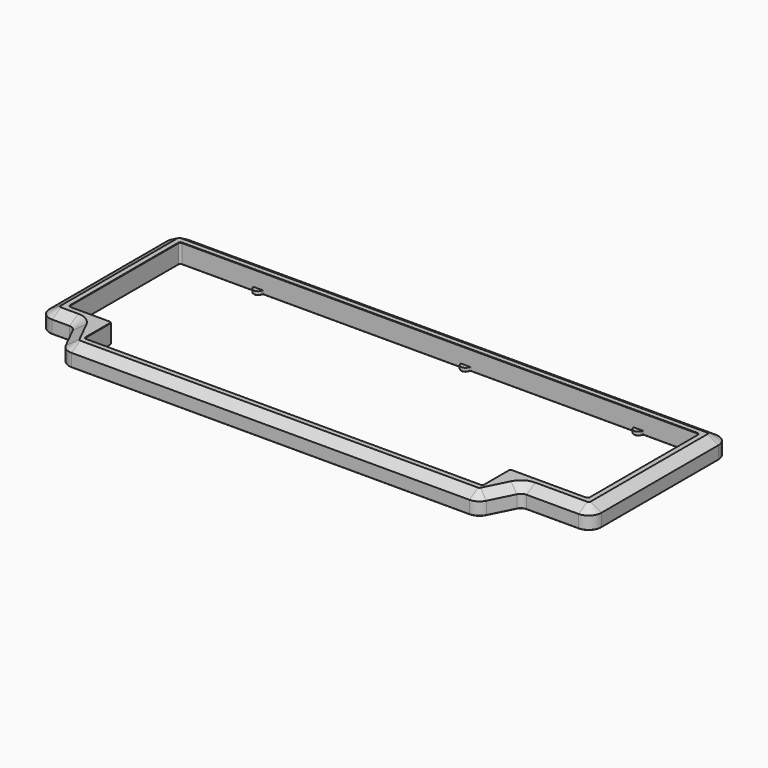
from build123d import *

# Parameters (mm, degrees)
PAD_DEPTH       = 10.6
PAD005_DEPTH    = 2
FILLET_R        = 4
FILLET008_R     = 7
CHAMFER_ANGLE   = 30
CHAMFER_SIZE    = 6
FILLET009_R     = 1
FILLET010_R     = 1.2
CHAMFER004_SIZE = 0.2
SKETCH015_R     = 1.25
HOLE004_DEPTH   = 3
HOLE004_TIPS_R  = 1.25


with BuildPart() as part:
    # Sketch → Pad (new body)
    with BuildSketch(Plane.XY):
        Polygon((-152.075, 56.825), (152.075, 56.825), (152.075, -37.775), (113.975, -37.775), (104.45, -56.825), (-123.5, -56.825), (-133.025, -37.775), (-152.075, -37.775), align=None)
        Polygon((-143.075, 47.825), (143.075, 47.825), (143.075, -28.775), (100.2125, -28.775), (100.2125, -47.825), (-119.2625, -47.825), (-119.2625, -28.775), (-143.075, -28.775), align=None, mode=Mode.SUBTRACT)
    extrude(amount=PAD_DEPTH)

    # Sketch011 (on Face17 of Pad) → Pad005 (join)
    with BuildSketch(Plane(origin=(0, 0, 0), x_dir=(1, 0, 0), z_dir=(0, 0, -1))):
        with BuildLine():
            ThreePointArc((16.752533, -47.408333), (14.2875, -45.325), (11.822467, -47.408333))
            ThreePointArc((11.32946, -47.825), (11.652209, -47.706881), (11.822467, -47.408333))
            Line((11.32946, -47.825), (17.24554, -47.825))
            ThreePointArc((16.752533, -47.408333), (16.922791, -47.706881), (17.24554, -47.825))
        make_face()
        with BuildLine():
            ThreePointArc((112.002533, -47.408333), (109.5375, -45.325), (107.072467, -47.408333))
            ThreePointArc((106.57946, -47.825), (106.902209, -47.706881), (107.072467, -47.408333))
            Line((106.57946, -47.825), (112.49554, -47.825))
            ThreePointArc((112.002533, -47.408333), (112.172791, -47.706881), (112.49554, -47.825))
        make_face()
        with BuildLine():
            ThreePointArc((-97.547467, -47.408333), (-100.0125, -45.325), (-102.477533, -47.408333))
            ThreePointArc((-102.97054, -47.825), (-102.647791, -47.706881), (-102.477533, -47.408333))
            Line((-102.97054, -47.825), (-97.05446, -47.825))
            ThreePointArc((-97.547467, -47.408333), (-97.377209, -47.706881), (-97.05446, -47.825))
        make_face()
        with BuildLine():
            ThreePointArc((73.734967, 47.408333), (76.2, 45.325), (78.665033, 47.408333))
            ThreePointArc((79.15804, 47.825), (78.835291, 47.706881), (78.665033, 47.408333))
            Line((73.24196, 47.825), (79.15804, 47.825))
            ThreePointArc((73.734967, 47.408333), (73.564709, 47.706881), (73.24196, 47.825))
        make_face()
        with BuildLine():
            ThreePointArc((-97.715033, 47.408333), (-95.25, 45.325), (-92.784967, 47.408333))
            ThreePointArc((-92.29196, 47.825), (-92.614709, 47.706881), (-92.784967, 47.408333))
            Line((-98.20804, 47.825), (-92.29196, 47.825))
            ThreePointArc((-97.715033, 47.408333), (-97.885291, 47.706881), (-98.20804, 47.825))
        make_face()
    extrude(amount=-PAD005_DEPTH)

    # Fillet
    fillet_edges = [part.edges().sort_by_distance(p)[0] for p in [
        (113.975, -37.775, 5.3),
        (-133.025, -37.775, 5.3),
    ]]
    fillet(fillet_edges, radius=FILLET_R)

    # Fillet008
    fillet008_edges = [part.edges().sort_by_distance(p)[0] for p in [
        (-152.075, -37.775, 5.3),
        (-123.5, -56.825, 5.3),
        (104.45, -56.825, 5.3),
        (152.075, -37.775, 5.3),
        (152.075, 56.825, 5.3),
        (-152.075, 56.825, 5.3),
    ]]
    fillet(fillet008_edges, radius=FILLET008_R)

    # Chamfer
    chamfer_edges = [part.edges().sort_by_distance(p)[0] for p in [
        (-9.525, -56.825, 10.6),
    ]]
    chamfer_side = part.faces().sort_by_distance((130.761068, -34.528101, 10.6))[0]
    chamfer(chamfer_edges, length=CHAMFER_SIZE, angle=CHAMFER_ANGLE, reference=chamfer_side)

    # Fillet009
    fillet009_edges = [part.edges().sort_by_distance(p)[0] for p in [
        (100.2125, -47.825, 5.3),
        (143.075, -28.775, 5.3),
        (143.075, 47.825, 5.3),
        (-143.075, 47.825, 5.3),
        (-143.075, -28.775, 5.3),
        (-119.2625, -47.825, 5.3),
    ]]
    fillet(fillet009_edges, radius=FILLET009_R)

    # Fillet010
    fillet010_edges = [part.edges().sort_by_distance(p)[0] for p in [
        (100.2125, -28.775, 5.3),
        (-119.2625, -28.775, 5.3),
    ]]
    fillet(fillet010_edges, radius=FILLET010_R)

    # Chamfer004
    chamfer004_edges = [part.edges().sort_by_distance(p)[0] for p in [
        (121.74375, -28.775, 10.6),
        (121.74375, -28.775, 0),
        (152.075, 9.525, 0),
    ]]
    chamfer(chamfer004_edges, length=CHAMFER004_SIZE)

    # Sketch015 (on Face118 of Chamfer004) → Hole004 (cut)
    with BuildSketch(Plane(origin=(0, 0, 0), x_dir=(1, 0, 0), z_dir=(0, 0, -1))):
        with Locations((-95.25, 52.325)):
            Circle(SKETCH015_R)
        with Locations((95.25, 52.325)):
            Circle(SKETCH015_R)
        with Locations((147.575, 19.05)):
            Circle(SKETCH015_R)
        with Locations((-147.575, 19.05)):
            Circle(SKETCH015_R)
        with Locations((-147.575, -52.325)):
            Circle(SKETCH015_R)
        with Locations((147.575, -52.325)):
            Circle(SKETCH015_R)
        with Locations((-19.05, -52.325)):
            Circle(SKETCH015_R)
        with Locations((19.05, -52.325)):
            Circle(SKETCH015_R)
    extrude(amount=-HOLE004_DEPTH, mode=Mode.SUBTRACT)

    # Hole004 tips → Hole004 tip 1 section 0
    with BuildSketch(Plane(origin=(0, 0, 3), x_dir=(1, 0, 0), z_dir=(0, 0, -1)), mode=Mode.PRIVATE) as hole004_tip_1_s0:
        with Locations((-95.25, 52.325)):
            Circle(HOLE004_TIPS_R)
    loft([hole004_tip_1_s0.sketch, Vertex(-95.25, -52.325, 3.751076)], mode=Mode.SUBTRACT)

    # Hole004 tips → Hole004 tip 2 section 0
    with BuildSketch(Plane(origin=(0, 0, 3), x_dir=(1, 0, 0), z_dir=(0, 0, -1)), mode=Mode.PRIVATE) as hole004_tip_2_s0:
        with Locations((95.25, 52.325)):
            Circle(HOLE004_TIPS_R)
    loft([hole004_tip_2_s0.sketch, Vertex(95.25, -52.325, 3.751076)], mode=Mode.SUBTRACT)

    # Hole004 tips → Hole004 tip 3 section 0
    with BuildSketch(Plane(origin=(0, 0, 3), x_dir=(1, 0, 0), z_dir=(0, 0, -1)), mode=Mode.PRIVATE) as hole004_tip_3_s0:
        with Locations((147.575, 19.05)):
            Circle(HOLE004_TIPS_R)
    loft([hole004_tip_3_s0.sketch, Vertex(147.575, -19.05, 3.751076)], mode=Mode.SUBTRACT)

    # Hole004 tips → Hole004 tip 4 section 0
    with BuildSketch(Plane(origin=(0, 0, 3), x_dir=(1, 0, 0), z_dir=(0, 0, -1)), mode=Mode.PRIVATE) as hole004_tip_4_s0:
        with Locations((-147.575, 19.05)):
            Circle(HOLE004_TIPS_R)
    loft([hole004_tip_4_s0.sketch, Vertex(-147.575, -19.05, 3.751076)], mode=Mode.SUBTRACT)

    # Hole004 tips → Hole004 tip 5 section 0
    with BuildSketch(Plane(origin=(0, 0, 3), x_dir=(1, 0, 0), z_dir=(0, 0, -1)), mode=Mode.PRIVATE) as hole004_tip_5_s0:
        with Locations((-147.575, -52.325)):
            Circle(HOLE004_TIPS_R)
    loft([hole004_tip_5_s0.sketch, Vertex(-147.575, 52.325, 3.751076)], mode=Mode.SUBTRACT)

    # Hole004 tips → Hole004 tip 6 section 0
    with BuildSketch(Plane(origin=(0, 0, 3), x_dir=(1, 0, 0), z_dir=(0, 0, -1)), mode=Mode.PRIVATE) as hole004_tip_6_s0:
        with Locations((147.575, -52.325)):
            Circle(HOLE004_TIPS_R)
    loft([hole004_tip_6_s0.sketch, Vertex(147.575, 52.325, 3.751076)], mode=Mode.SUBTRACT)

    # Hole004 tips → Hole004 tip 7 section 0
    with BuildSketch(Plane(origin=(0, 0, 3), x_dir=(1, 0, 0), z_dir=(0, 0, -1)), mode=Mode.PRIVATE) as hole004_tip_7_s0:
        with Locations((-19.05, -52.325)):
            Circle(HOLE004_TIPS_R)
    loft([hole004_tip_7_s0.sketch, Vertex(-19.05, 52.325, 3.751076)], mode=Mode.SUBTRACT)

    # Hole004 tips → Hole004 tip 8 section 0
    with BuildSketch(Plane(origin=(0, 0, 3), x_dir=(1, 0, 0), z_dir=(0, 0, -1)), mode=Mode.PRIVATE) as hole004_tip_8_s0:
        with Locations((19.05, -52.325)):
            Circle(HOLE004_TIPS_R)
    loft([hole004_tip_8_s0.sketch, Vertex(19.05, 52.325, 3.751076)], mode=Mode.SUBTRACT)


solid = part.part
